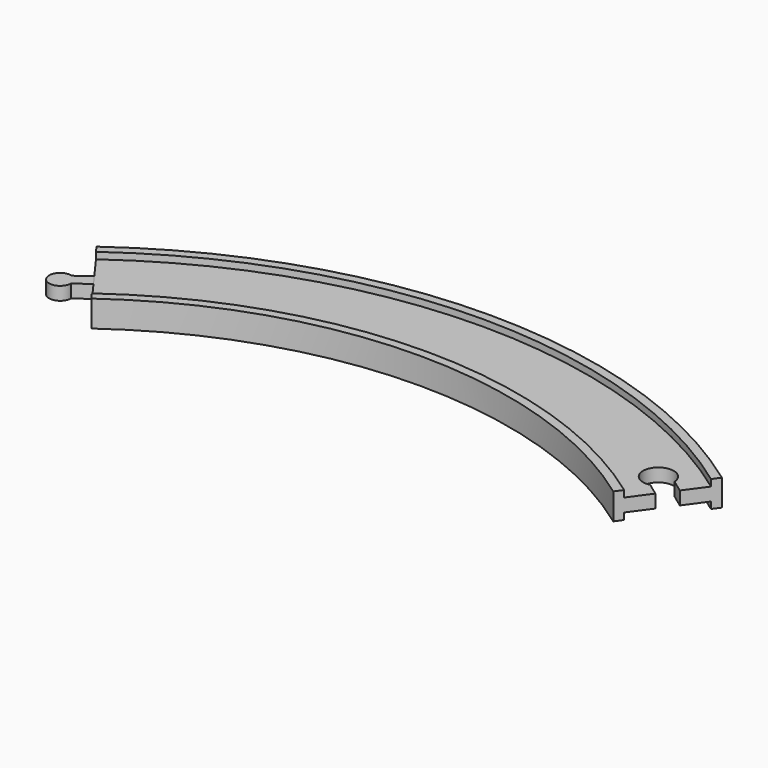
from build123d import *

# Parameters (mm, degrees)
POCKET_DEPTH = 9.001
PAD_DEPTH    = 3


with BuildPart() as body:
    # AdditivePipe: sweep along a path in Sketch
    with BuildLine(Plane.XY) as additivepipe_path:
        ThreePointArc((130.488326, 179.601773), (0, 222), (-130.488326, 179.601773))
    # Sketch002 (on DatumPlane) → AdditivePipe (sweep)
    with BuildSketch(Plane(origin=(-130.488326, 179.601773, 0), x_dir=(-0.587785, 0.809017, 0), z_dir=(0.809017, 0.587785, 0))):
        Polygon((-20, 6), (-20, -6), (-16, -6), (-16, -3), (-9, -3), (9, -3), (16, -3), (16, -6), (20, -6), (20, 6), (16, 6), (16, 3), (9, 3), (-9, 3), (-16, 3), (-16, 6), align=None)
    sweep(path=additivepipe_path.line)

    # Sketch004 (on Face18 of AdditivePipe) → Pocket (cut, through all)
    with BuildSketch(Plane(origin=(-130.488326, 179.601773, 3), x_dir=(0.587785, -0.809017, 0), z_dir=(0, 0, 1))):
        with BuildLine():
            Line((152.007651, 215.414301), (154.788804, 206.854792))
            Line((154.788804, 206.854792), (148.131408, 204.691673))
            ThreePointArc((145.350255, 213.251182), (134.983964, 205.15139), (148.131408, 204.691673))
            Line((152.007651, 215.414301), (145.350255, 213.251182))
        make_face()
    extrude(amount=-POCKET_DEPTH, mode=Mode.SUBTRACT)


with BuildPart() as body001:
    # Sketch005 → Pad (new body, symmetric)
    with BuildSketch(Plane.XY):
        with BuildLine():
            Line((-132.251682, 182.028824), (-128.72497, 177.174722))
            Line((-128.72497, 177.174722), (-135.197106, 172.47244))
            ThreePointArc((-138.723818, 177.326542), (-144.241615, 169.609423), (-135.197106, 172.47244))
            Line((-132.251682, 182.028824), (-138.723818, 177.326542))
        make_face()
    extrude(amount=PAD_DEPTH, both=True)


solid = Compound([body.part, body001.part])
